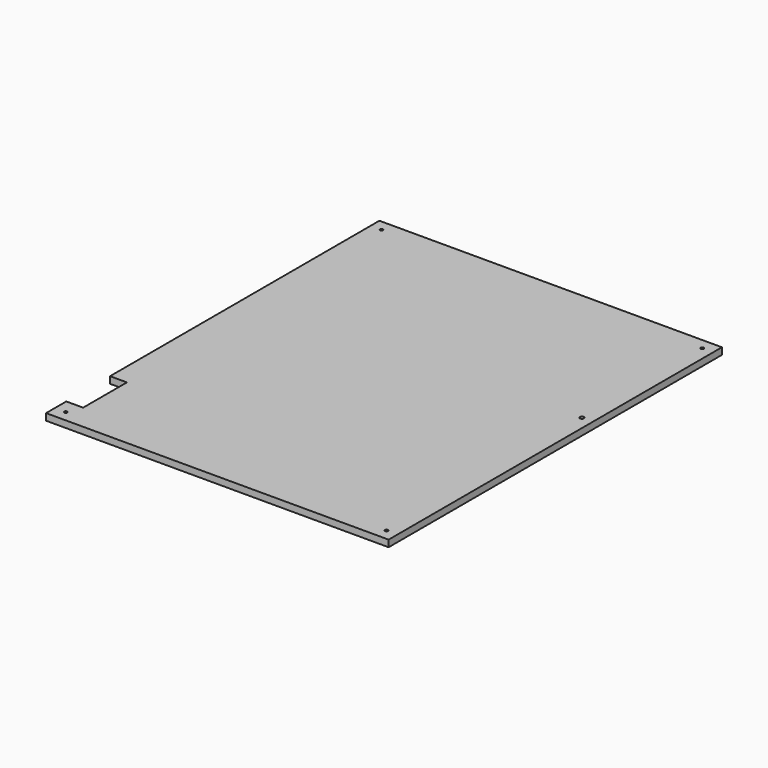
from build123d import *

# Parameters (mm, degrees)
SKETCH_R   = 1.8
SKETCH_R_2 = 2.4
PAD_DEPTH  = 8


with BuildPart() as part:
    # Sketch → Pad (new body)
    with BuildSketch(Plane.XY):
        Polygon((-203.5, 247.5), (203.5, 247.5), (203.5, -247.5), (-203.5, -247.5), (-203.5, -217.5), (-183.5, -217.5), (-183.5, -152.5), (-203.5, -152.5), align=None)
        with Locations((-190.5, 234.5)):
            Circle(SKETCH_R, mode=Mode.SUBTRACT)
        with Locations((190.5, 234.5)):
            Circle(SKETCH_R, mode=Mode.SUBTRACT)
        with Locations((-190.5, -234.5)):
            Circle(SKETCH_R, mode=Mode.SUBTRACT)
        with Locations((190.5, -234.5)):
            Circle(SKETCH_R, mode=Mode.SUBTRACT)
        with Locations((190.5, 55.9)):
            Circle(SKETCH_R_2, mode=Mode.SUBTRACT)
    extrude(amount=PAD_DEPTH)


solid = part.part
